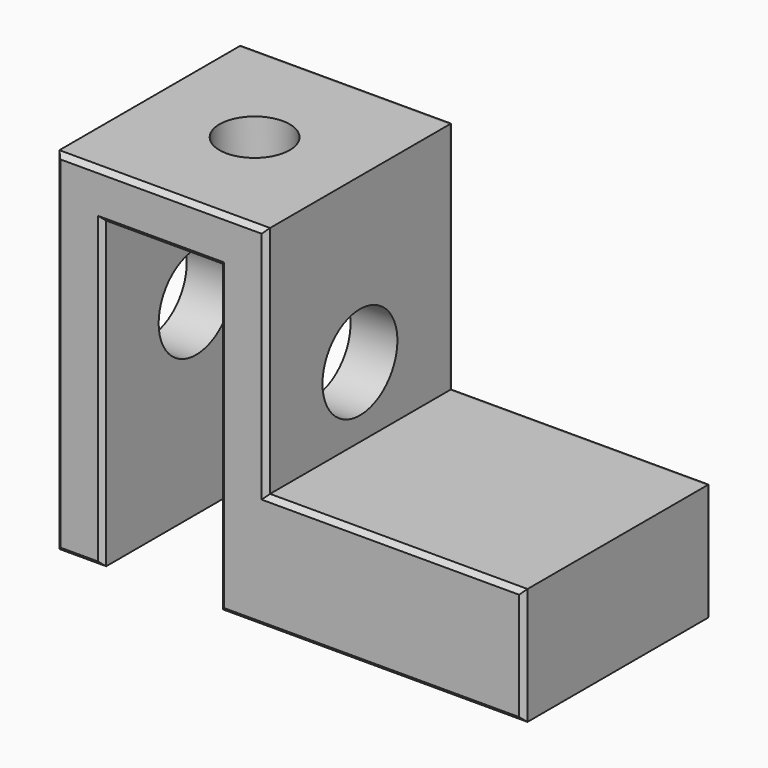
from build123d import *

# Parameters (mm, degrees)
F0_W     = 100
F0_H     = 50
F1_DEPTH = 25
F2_W     = 45
F2_H     = 50
F3_DEPTH = 50
F4_W     = 25
F4_H     = 65
F5_DEPTH = 50.001
F6_R     = 10
F7_DEPTH = 100.001
F8_R     = 7.5
F9_DEPTH = 10
F10_SIZE = 1
F11_R    = 1


with BuildPart() as f1:
    # F0 (on Top) → F1 (new body)
    with BuildSketch(Plane.XY):
        with Locations((50, 25)):
            Rectangle(F0_W, F0_H)
    extrude(amount=F1_DEPTH)

    # F2 (on face) → F3 (join)
    with BuildSketch(Plane.XY.offset(25)):
        with Locations((22.5, 25)):
            Rectangle(F2_W, F2_H)
    extrude(amount=F3_DEPTH)

    # F4 (on face) → F5 (cut, through all)
    with BuildSketch(Plane.XZ):
        with Locations((22.5, 32.5)):
            Rectangle(F4_W, F4_H)
    extrude(amount=-F5_DEPTH, mode=Mode.SUBTRACT)

    # F6 (on face) → F7 (cut, through all)
    with BuildSketch(Plane(origin=(0, 0, 0), x_dir=(0, -1, 0), z_dir=(-1, 0, 0))):
        with Locations((-25, 40)):
            Circle(F6_R)
    extrude(amount=-F7_DEPTH, mode=Mode.SUBTRACT)

    # F8 (on face) → F9 (cut, through all)
    with BuildSketch(Plane.XY.offset(75)):
        with Locations((22.5, 25)):
            Circle(F8_R)
    extrude(amount=-F9_DEPTH, mode=Mode.SUBTRACT)

    # F10
    f10_edges = [f1.edges().sort_by_distance(p)[0] for p in [
        (0, 0, 37.5),
        (35, 0, 32.5),
        (22.5, 0, 65),
        (5, 0, 0),
        (10, 0, 32.5),
        (67.5, 0, 0),
        (100, 0, 12.5),
        (72.5, 0, 25),
        (45, 0, 50),
        (22.5, 0, 75),
    ]]
    chamfer(f10_edges, length=F10_SIZE)

    # F11
    f11_edges = [f1.edges().sort_by_distance(p)[0] for p in [
        (72.5, 50, 25),
        (45, 50, 50),
        (22.5, 50, 75),
        (0, 50, 37.5),
        (67.5, 50, 0),
        (35, 50, 32.5),
        (22.5, 50, 65),
        (10, 50, 32.5),
        (5, 50, 0),
        (100, 50, 12.5),
    ]]
    fillet(f11_edges, radius=F11_R)


solid = f1.part
